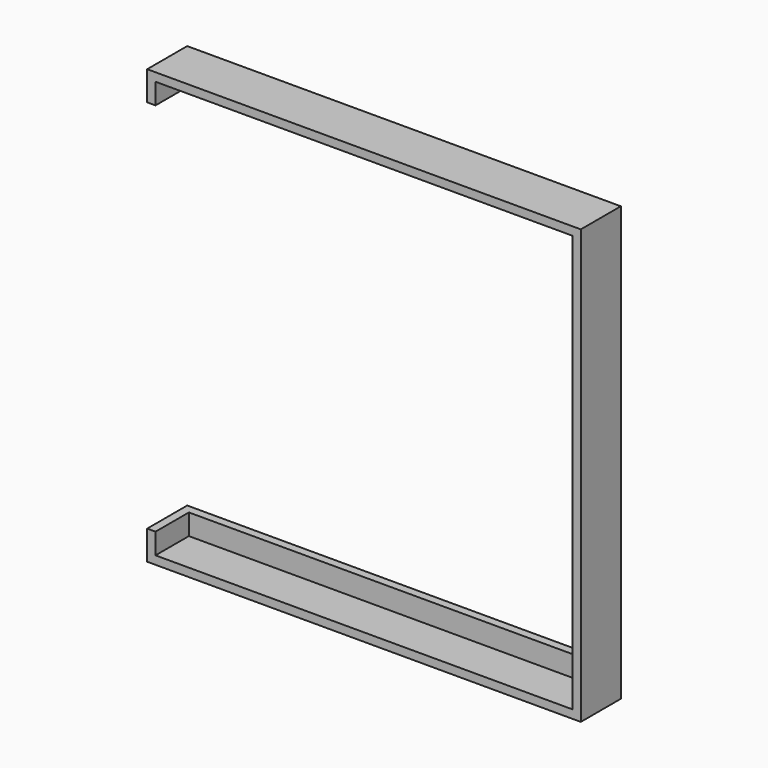
from build123d import *

# Parameters (mm, degrees)
F0_W      = 104
F0_H      = 104
F1_DEPTH  = 2
F2_T      = -2
F3_W      = 104
F3_H      = 2
F4_DEPTH  = 10
F5_W      = 104
F5_H      = 2
F6_DEPTH  = 10
F7_W      = 2
F7_H      = 100
F8_DEPTH  = 10
F9_W      = 2
F9_H      = 100
F10_DEPTH = 10
F13_W     = 111.434492
F13_H     = 90
F14_DEPTH = 25
F15_W     = 15.078314
F15_H     = 90
F16_DEPTH = 25


with BuildPart() as f1:
    # F0 (on Front) → F1 (new body)
    with BuildSketch(Plane.XZ):
        Rectangle(F0_W, F0_H)
    extrude(amount=F1_DEPTH)

    # F2
    f2_openings = [f1.faces().sort_by_distance(p)[0] for p in [
        (0, -2, 0),
    ]]
    offset(amount=F2_T, openings=f2_openings)

    # F3 (on face) → F4 (join)
    with BuildSketch(Plane.XZ.offset(2)):
        with Locations((0, 51)):
            Rectangle(F3_W, F3_H)
    extrude(amount=F4_DEPTH)

    # F5 (on face) → F6 (join)
    with BuildSketch(Plane.XZ.offset(2)):
        with Locations((0, -51)):
            Rectangle(F5_W, F5_H)
    extrude(amount=F6_DEPTH)

    # F7 (on face) → F8 (join)
    with BuildSketch(Plane.XZ.offset(2)):
        with Locations((-51, 0)):
            Rectangle(F7_W, F7_H)
    extrude(amount=F8_DEPTH)

    # F9 (on face) → F10 (join)
    with BuildSketch(Plane.XZ.offset(2)):
        with Locations((51, 0)):
            Rectangle(F9_W, F9_H)
    extrude(amount=F10_DEPTH)

    # F13 (on face) → F14 (cut)
    with BuildSketch(Plane.XZ.offset(2)):
        with Locations((-5.717246, 0)):
            Rectangle(F13_W, F13_H)
    extrude(amount=-F14_DEPTH, mode=Mode.SUBTRACT)

    # F15 (on face) → F16 (cut)
    with BuildSketch(Plane(origin=(-52, 0, 0), x_dir=(0, -1, 0), z_dir=(-1, 0, 0))):
        with Locations((9.539157, 0)):
            Rectangle(F15_W, F15_H)
    extrude(amount=-F16_DEPTH, mode=Mode.SUBTRACT)


solid = f1.part
